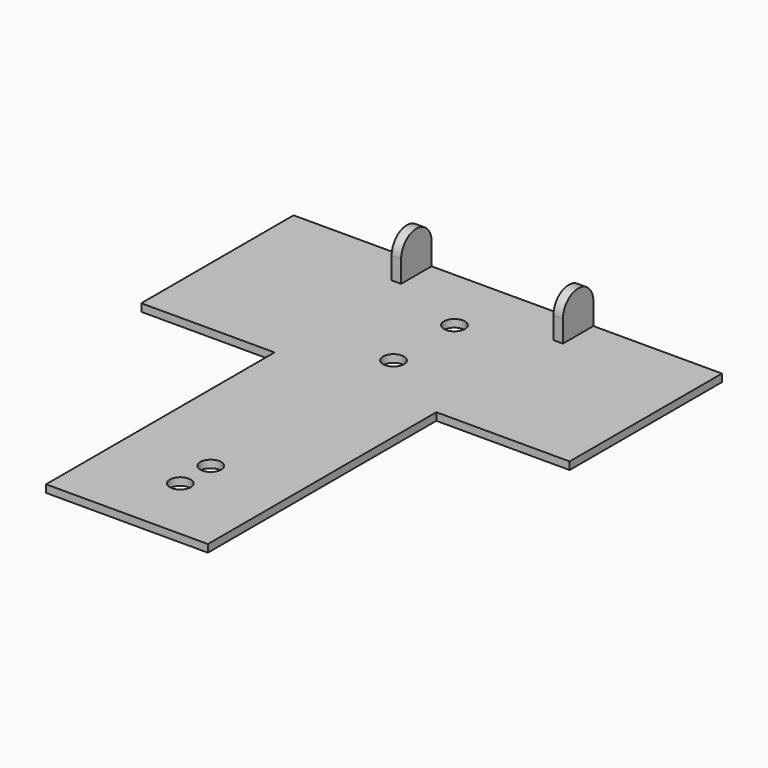
from build123d import *

# Parameters (mm, degrees)
F1_DEPTH = 0.8
F4_DEPTH = 1
F6_R     = 1.1
F7_DEPTH = 0.801


with BuildPart() as f1:
    # F0 (on Top) → F1 (new body)
    with BuildSketch(Plane.XY):
        Polygon((-8.5, 2.5), (-8.5, -27.5), (8.5, -27.5), (8.5, 2.5), (22.5, 2.5), (22.5, 22.5), (-22.5, 22.5), (-22.5, 2.5), align=None)
    extrude(amount=F1_DEPTH)

    # F3 (on offset) → F4 (join)
    with BuildSketch(Plane.YZ.offset(8)):
        with BuildLine():
            Line((18.5, 3.1), (18.5, 0.8))
            Line((18.5, 0.8), (22.5, 0.8))
            Line((22.5, 0.8), (22.5, 3.1))
            ThreePointArc((22.5, 3.1), (20.5, 5.1), (18.5, 3.1))
        make_face()
    extrude(amount=F4_DEPTH)

    # F5: F1 across plane


with BuildPart() as f1_1:
    add(f1.part)
    add(f1.part.mirror(Plane.YZ))

    # F6 (on face) → F7 (cut, through all)
    with BuildSketch(Plane.XY.offset(0.8)):
        with Locations((0, 15.5)):
            Circle(F6_R)
        with Locations((0, 7.5)):
            Circle(F6_R)
        with Locations((0, -16.5)):
            Circle(F6_R)
        with Locations((0, -20.5)):
            Circle(F6_R)
    extrude(amount=-F7_DEPTH, mode=Mode.SUBTRACT)


solid = f1_1.part
